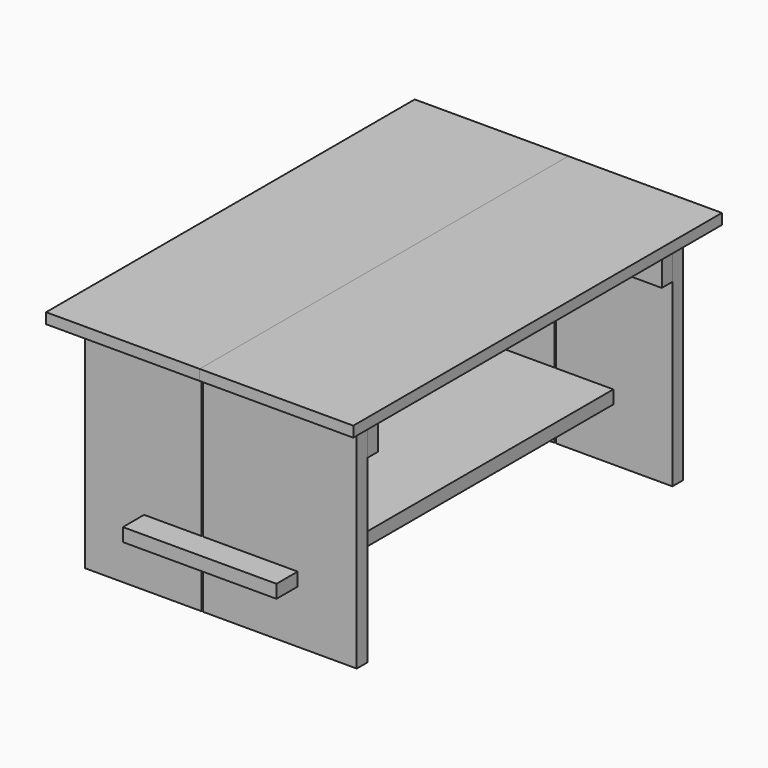
from build123d import *

# Parameters (mm, degrees)
F0_W      = 290
F0_H      = 20
F1_DEPTH  = 435
F2_W      = 290
F2_H      = 20
F3_DEPTH  = 435
F4_W      = 220
F4_H      = 25
F4_W_2    = 290
F5_DEPTH  = 415
F6_W      = 145
F6_H      = 25
F7_DEPTH  = 500
F9_DEPTH  = 25
F10_W     = 513
F10_H     = 75
F11_DEPTH = 25
F12_W     = 513
F12_H     = 75
F13_DEPTH = 25


with BuildPart() as f1:
    # F0 (on Front) → F1 (new body, symmetric)
    with BuildSketch(Plane.XZ):
        with Locations((-145, -10)):
            Rectangle(F0_W, F0_H)
    extrude(amount=F1_DEPTH, both=True)


with BuildPart() as f3:
    # F2 (on Front) → F3 (new body, symmetric)
    with BuildSketch(Plane.XZ):
        with Locations((145, -10)):
            Rectangle(F2_W, F2_H)
    extrude(amount=F3_DEPTH, both=True)


with BuildPart() as f5:
    # F4 (on face) → F5 (new body)
    with BuildSketch(Plane(origin=(0, 0, -20), x_dir=(1, 0, 0), z_dir=(0, 0, -1))):
        with Locations((-146.5, 372.5)):
            Rectangle(F4_W, F4_H)
        with Locations((111.5, 372.5)):
            Rectangle(F4_W_2, F4_H)
        with Locations((146.5, -372.5)):
            Rectangle(F4_W, F4_H)
        with Locations((-111.5, -372.5)):
            Rectangle(F4_W_2, F4_H)
    extrude(amount=F5_DEPTH)

    # F6 (on Front) → F7 (cut, symmetric)
    with BuildSketch(Plane.XZ):
        with Locations((0, -322.5)):
            Rectangle(F6_W, F6_H)
    extrude(amount=F7_DEPTH, both=True, mode=Mode.SUBTRACT)


with BuildPart() as f9:
    # F8 (on face) → F9 (new body)
    with BuildSketch(Plane.XY.offset(-335)):
        Polygon((145, 435), (-145, 435), (-145, 385), (-72.5, 385), (-72.5, 360), (-145, 360), (-145, -360), (-90.640374, -360), (-90.640374, -385), (-145, -385), (-145, -435), (145, -435), (145, -385), (72.5, -385), (72.5, -360), (145, -360), (145, 360), (72.5, 360), (72.5, 385), (145, 385), align=None)
    extrude(amount=F9_DEPTH)


with BuildPart() as f11:
    # F10 (on face) → F11 (new body)
    with BuildSketch(Plane.XZ.offset(-360)):
        with Locations((0, -57.5)):
            Rectangle(F10_W, F10_H)
    extrude(amount=F11_DEPTH)


with BuildPart() as f13:
    # F12 (on face) → F13 (new body)
    with BuildSketch(Plane(origin=(0, -360, 0), x_dir=(-1, 0, 0), z_dir=(0, 1, 0))):
        with Locations((0, -57.5)):
            Rectangle(F12_W, F12_H)
    extrude(amount=F13_DEPTH)


solid = Compound([f1.part, f3.part, f5.part, f9.part, f11.part, f13.part])
